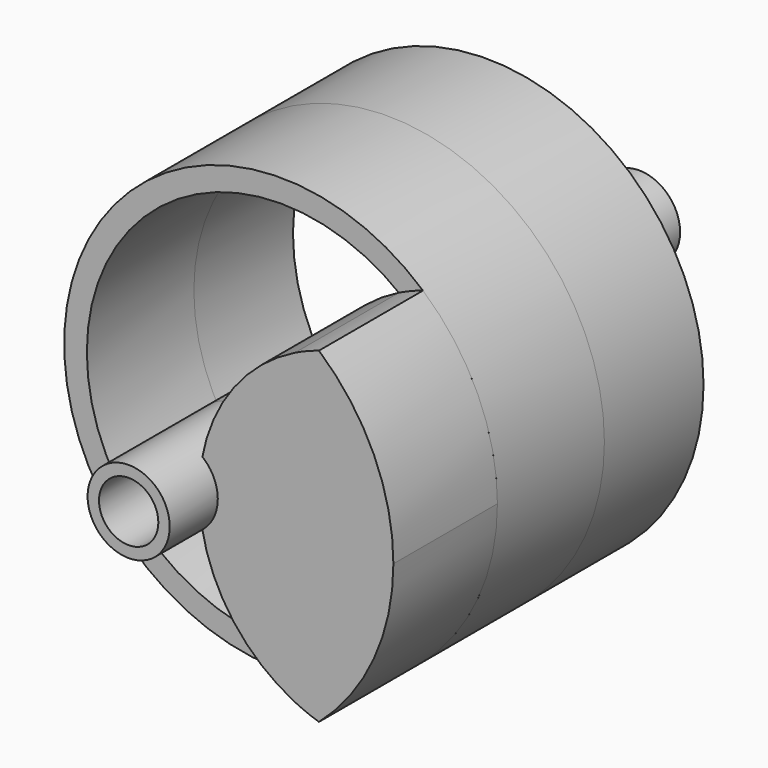
from build123d import *

# Parameters (mm, degrees)
F1_R     = 8.4979438247
F1_R_2   = 6.1426821127
F2_DEPTH = 66.04
F0_R     = 44.8501259772
F0_R_2   = 40.1510242743
F3_DEPTH = 26.67
F4_DEPTH = 27.686
F6_DEPTH = 26.924


with BuildPart() as f2:
    # F1 (on Front) → F2 (new body, symmetric)
    with BuildSketch(Plane.XZ):
        Circle(F1_R)
        Circle(F1_R_2, mode=Mode.SUBTRACT)
    extrude(amount=F2_DEPTH, both=True)


with BuildPart() as f3:
    # F0 (on Front) → F3 (new body, symmetric)
    with BuildSketch(Plane.XZ):
        Circle(F0_R)
        Circle(F0_R_2, mode=Mode.SUBTRACT)
    extrude(amount=F3_DEPTH, both=True)


with BuildPart() as f4:
    # F4 (new): a face of the model
    f4_faces = [f2.part.faces().sort_by_distance(p)[0] for p in [
        (-8.2575856766, -66.04, 0),
    ]]
    extrude(f4_faces, amount=-F4_DEPTH)


with BuildPart() as f4b:
    # F4#2 (new): a face of the model
    f4_2_faces = [f3.part.faces().sort_by_distance(p)[0] for p in [
        (-43.5815728485, -26.67, 0),
    ]]
    extrude(f4_2_faces, amount=-F4_DEPTH)


with BuildPart() as f6:
    # F5 (on face) → F6 (new body)
    with BuildSketch(Plane.XZ.offset(26.67)):
        with BuildLine():
            ThreePointArc((44.8501259772, 0), (40.8163156263, 18.5893028073), (29.4404845845, 33.8347700982))
            ThreePointArc((29.4404845845, 33.8347700982), (26.9156396974, 32.9291956042), (24.4664016426, 31.8355138319))
            ThreePointArc((24.4664016426, 31.8355138319), (36.0170503827, 17.744769145), (40.1510242743, 0))
            ThreePointArc((40.1510242743, 0), (36.0170503827, -17.744769145), (24.4664016426, -31.8355138319))
            ThreePointArc((24.4664016426, -31.8355138319), (26.9156396974, -32.9291956042), (29.4404845845, -33.8347700982))
            ThreePointArc((29.4404845845, -33.8347700982), (40.8163156263, -18.5893028073), (44.8501259772, 0))
        make_face()
        with BuildLine():
            ThreePointArc((40.1510242743, 0), (36.0170503827, 17.744769145), (24.4664016426, 31.8355138319))
            ThreePointArc((24.4664016426, 31.8355138319), (4.6614859843, 0), (24.4664016426, -31.8355138319))
            ThreePointArc((24.4664016426, -31.8355138319), (36.0170503827, -17.744769145), (40.1510242743, 0))
        make_face()
    extrude(amount=F6_DEPTH)


solid = Compound([f2.part, f3.part, f4.part, f4b.part, f6.part])
